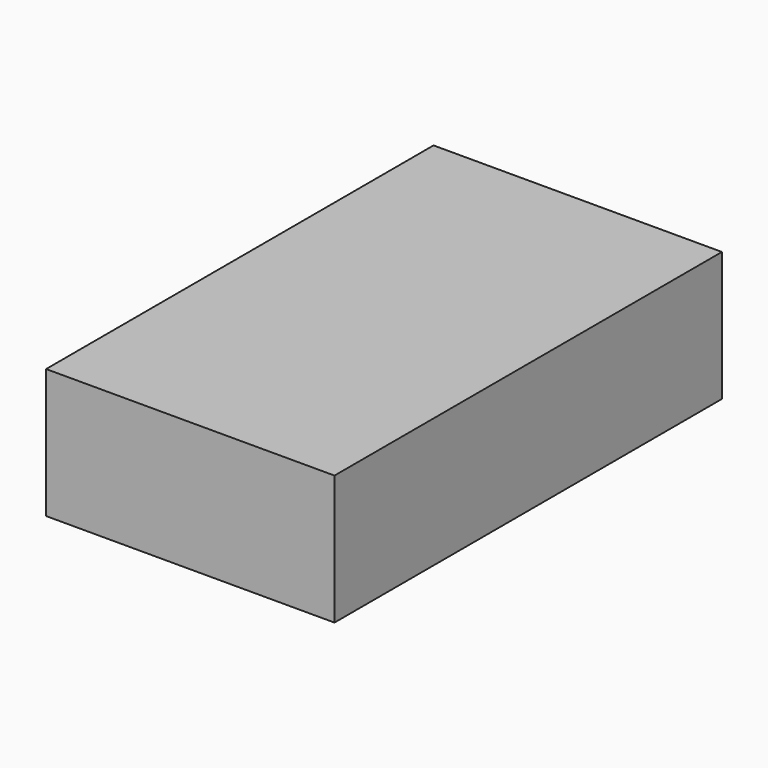
from build123d import *

# Parameters (mm, degrees)
SKETCH_W         = 538.533017
SKETCH_H         = 201.352429
SKETCH_W_2       = 536.533017
SKETCH_H_2       = 199.352429
EXTRUDE_DEPTH    = 1000
SKETCH003_W      = 541.015218
SKETCH003_H      = 2.468055
EXTRUDE003_DEPTH = 200
SKETCH004_W      = 539.587529
SKETCH004_H      = 6.787689
EXTRUDE004_DEPTH = 200
SKETCH005_W      = 1.100233
SKETCH005_H      = 201.404207
EXTRUDE005_DEPTH = 10
SKETCH006_W      = 0.992309
SKETCH006_H      = 201.451226
EXTRUDE006_DEPTH = 10
SKETCH007_W      = 538.741766
SKETCH007_H      = 1.050324
EXTRUDE007_DEPTH = 10
SKETCH008_W      = 538.753248
SKETCH008_H      = 1.060631
EXTRUDE008_DEPTH = 10
SKETCH009_W      = 537.97168
SKETCH009_H      = 3.779853
EXTRUDE009_DEPTH = 1000
SKETCH010_W      = 713.015061
SKETCH010_H      = 1197.288452
EXTRUDE010_DEPTH = 160


with BuildPart() as obj1:
    # Sketch → Extrude (new body)
    with BuildSketch(Plane.XZ):
        with Locations((268.266508, 99.676215)):
            Rectangle(SKETCH_W, SKETCH_H)
        with Locations((268.266508, 99.676215)):
            Rectangle(SKETCH_W_2, SKETCH_H_2, mode=Mode.SUBTRACT)
    extrude(amount=EXTRUDE_DEPTH)


with BuildPart() as obj2:
    # Sketch003 (on Face3 of Extrude) → Extrude003 (new body)
    with BuildSketch(Plane.XY.offset(200.352429)):
        with Locations((269.029928, 1.601028)):
            Rectangle(SKETCH003_W, SKETCH003_H)
    extrude(amount=-EXTRUDE003_DEPTH)


with BuildPart() as obj3:
    # Sketch004 (on Face3 of Extrude) → Extrude004 (new body)
    with BuildSketch(Plane.XY.offset(200.352429)):
        with Locations((267.627194, -396.789047)):
            Rectangle(SKETCH004_W, SKETCH004_H)
    extrude(amount=-EXTRUDE004_DEPTH)


with BuildPart() as obj3_1:
    # Extrude004 placement: moved
    add(obj3.part.moved(Location((0, -600, 0))))


with BuildPart() as extrude005:
    # Sketch005 (on Face10 of Extrude) → Extrude005 (new body)
    with BuildSketch(Plane.XZ.offset(1000)):
        with Locations((-0.550117, 99.645705)):
            Rectangle(SKETCH005_W, SKETCH005_H)
    extrude(amount=EXTRUDE005_DEPTH)


with BuildPart() as extrude006:
    # Sketch006 (on Face10 of Extrude) → Extrude006 (new body)
    with BuildSketch(Plane.XZ.offset(1000)):
        with Locations((537.014892, 99.670932)):
            Rectangle(SKETCH006_W, SKETCH006_H)
    extrude(amount=EXTRUDE006_DEPTH)


with BuildPart() as extrude007:
    # Sketch007 (on Face10 of Extrude) → Extrude007 (new body)
    with BuildSketch(Plane.XZ.offset(1000)):
        with Locations((268.144925, 199.828125)):
            Rectangle(SKETCH007_W, SKETCH007_H)
    extrude(amount=EXTRUDE007_DEPTH)


with BuildPart() as extrude008:
    # Sketch008 (on Face10 of Extrude) → Extrude008 (new body)
    with BuildSketch(Plane.XZ.offset(1000)):
        with Locations((268.164147, -0.529333)):
            Rectangle(SKETCH008_W, SKETCH008_H)
    extrude(amount=EXTRUDE008_DEPTH)


with BuildPart() as electric_field:
    # Sketch009 → Extrude009 (new body)
    with BuildSketch(Plane.XZ):
        with Locations((268.98584, 93.524547)):
            Rectangle(SKETCH009_W, SKETCH009_H)
    extrude(amount=EXTRUDE009_DEPTH)


with BuildPart() as air_box:
    # Sketch010 → Extrude010 (new body, symmetric)
    with BuildSketch(Plane.XY.offset(120)):
        with Locations((271.1688, -509.91217)):
            Rectangle(SKETCH010_W, SKETCH010_H)
    extrude(amount=EXTRUDE010_DEPTH, both=True)


solid = Compound([obj1.part, obj2.part, obj3_1.part, extrude005.part, extrude006.part, extrude007.part, extrude008.part, electric_field.part, air_box.part])
